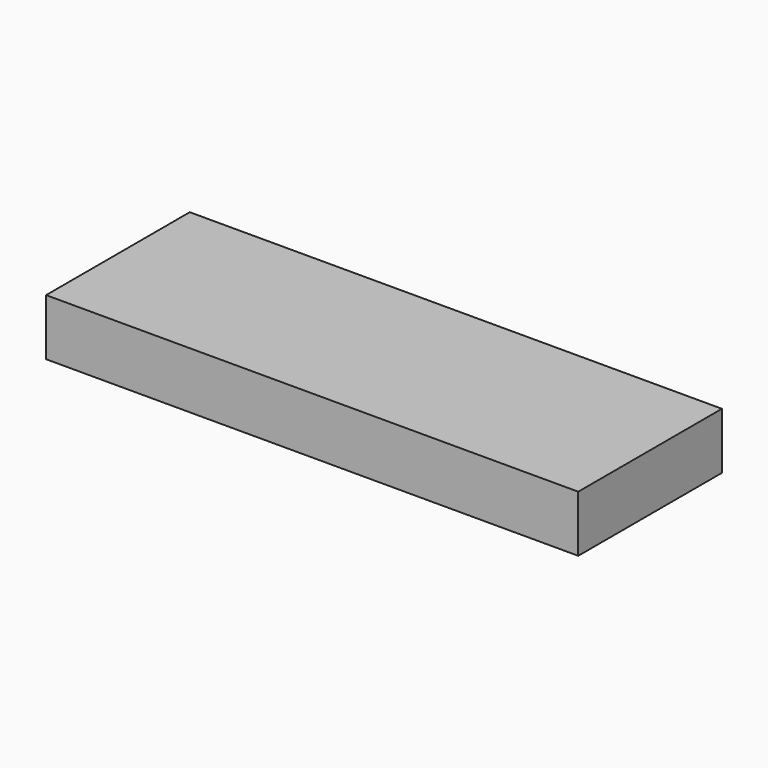
from build123d import *

# Parameters (mm, degrees)
SKETCH_W  = 94.281143
SKETCH_H  = 31.818053
PAD_DEPTH = 10


with BuildPart() as part:
    # Sketch → Pad (new body)
    with BuildSketch(Plane.XY):
        with Locations((1.129283, -0.403849)):
            Rectangle(SKETCH_W, SKETCH_H)
    extrude(amount=PAD_DEPTH)


solid = part.part
